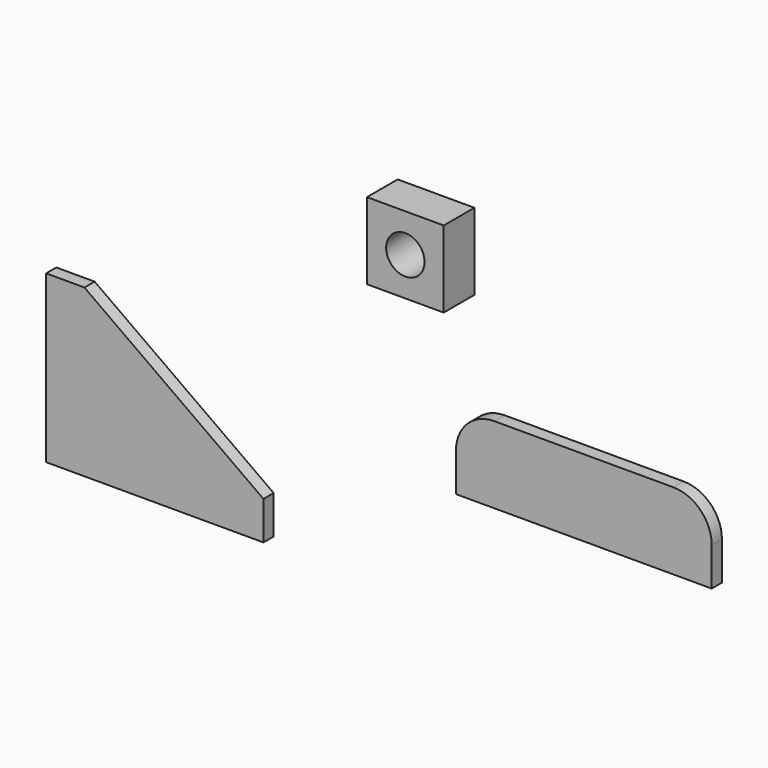
from build123d import *

# Parameters (mm, degrees)
F1_DEPTH = 6.35
F3_DEPTH = 6.35
F4_W     = 38.1
F4_H     = 38.1
F4_R     = 9.525
F5_DEPTH = 19.05


with BuildPart() as f1:
    # F0 (on Front) → F1 (new body)
    with BuildSketch(Plane.XZ):
        Polygon((48.721302, 0), (-40.178698, 63.5), (-59.228698, 63.5), (-59.228698, -19.05), (48.721302, -19.05), align=None)
    extrude(amount=F1_DEPTH)


with BuildPart() as f3:
    # F2 (on Front) → F3 (new body)
    with BuildSketch(Plane.XZ):
        with BuildLine():
            Line((252.288677, 71.27145), (163.388677, 71.27145))
            ThreePointArc((163.388677, 71.27145), (149.918293, 65.691834), (144.338677, 52.22145))
            Line((144.338677, 52.22145), (144.338677, 33.17145))
            Line((144.338677, 33.17145), (271.338677, 33.17145))
            Line((271.338677, 33.17145), (271.338677, 52.22145))
            ThreePointArc((271.338677, 52.22145), (265.759061, 65.691834), (252.288677, 71.27145))
        make_face()
    extrude(amount=F3_DEPTH)


with BuildPart() as f5:
    # F4 (on Front) → F5 (new body)
    with BuildSketch(Plane.XZ):
        with Locations((114.117831, 125.377322)):
            Rectangle(F4_W, F4_H)
        with Locations((114.117831, 125.377322)):
            Circle(F4_R, mode=Mode.SUBTRACT)
    extrude(amount=-F5_DEPTH)


solid = Compound([f1.part, f3.part, f5.part])
